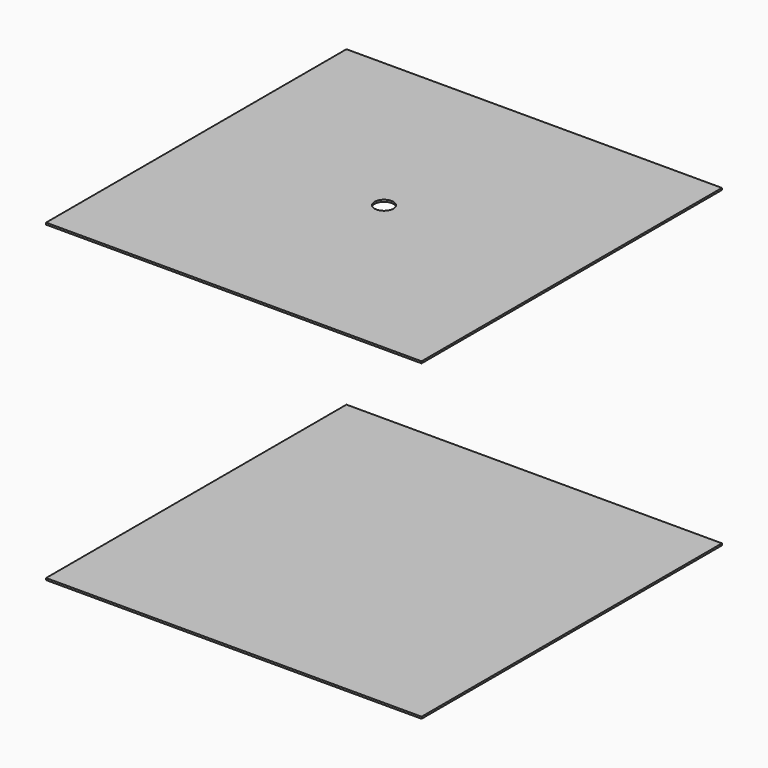
from build123d import *

# Parameters (mm, degrees)
F0_W      = 600
F0_H      = 600
F1_DEPTH  = 3
F3_R      = 15
F3_W      = 603
F3_H      = 603
F3_R_2    = 51.9341376396
F4_DEPTH  = 3
F10_DEPTH = 3
F11_W     = 603
F11_H     = 603
F12_DEPTH = 3


with BuildPart() as f1:
    # F0 (on Top) → F1 (new body)
    with BuildSketch(Plane.XY):
        Rectangle(F0_W, F0_H)
    extrude(amount=F1_DEPTH)


with BuildPart() as f2_1:
    # F2: copy of F1
    add(f1.part.moved(Location((0, 0, 500))))

    # F3 (on face) → F4 (cut, through all)
    with BuildSketch(Plane.XY.offset(503)):
        Circle(F3_R)
        with Locations((787.125565052, -26.1663422585)):
            Rectangle(F3_W, F3_H)
        with Locations((775.917828083, 0)):
            Circle(F3_R_2, mode=Mode.SUBTRACT)
    extrude(amount=-F4_DEPTH, mode=Mode.SUBTRACT)


with BuildPart() as f5_1:
    # F5: copy of F1
    add(f1.part.moved(Location((0, 0, 250))))


with BuildPart() as f6_1:
    # F6: copy of F1
    add(f1.part.moved(Location((0, 0, -250))))


with BuildPart() as f8_1:
    # F8: copy of F6_1
    add(f6_1.part.moved(Location((0, 0, -500))))

    # F9 (on face) → F10 (cut, through all)
    with BuildSketch(Plane.XY.offset(-747)):
        with BuildLine():
            Line((300, -220), (300, -160.0022337274))
            ThreePointArc((300, -160.0022337274), (270.2588640055, -190.0011168637), (300, -220))
        make_face()
    extrude(amount=-F10_DEPTH, mode=Mode.SUBTRACT)


with BuildPart() as f12:
    # F11 (on Top) → F12 (new body)
    with BuildSketch(Plane.XY):
        Rectangle(F11_W, F11_H)
    extrude(amount=F12_DEPTH)


with BuildPart() as f15_1:
    # F15: copy of F12
    add(f12.part)


solid = Compound([f1.part, f2_1.part])
